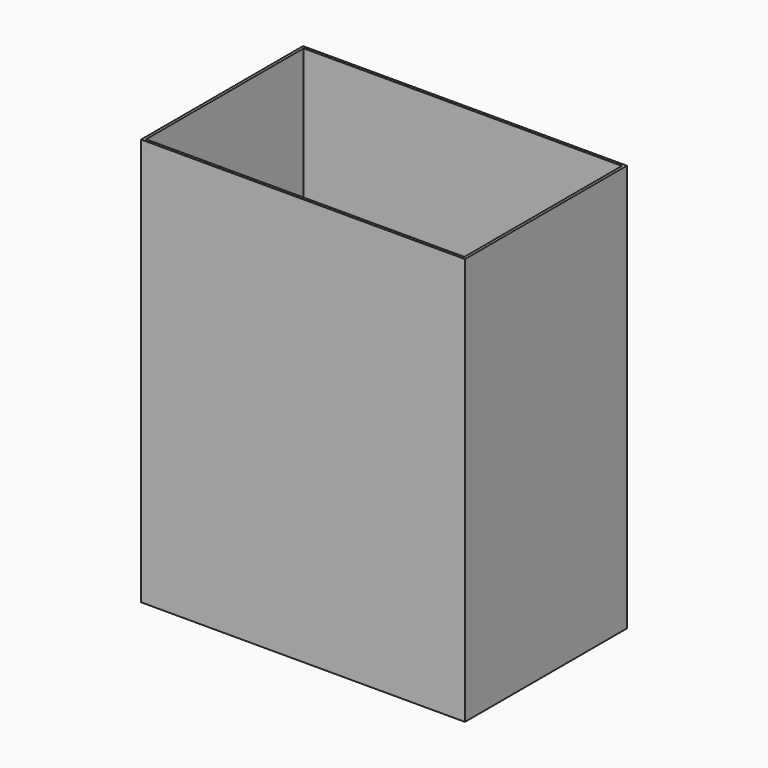
from build123d import *

# Parameters (mm, degrees)
F0_W     = 120
F0_H     = 75
F2_DEPTH = 1
F1_W     = 120
F1_H     = 75
F1_W_2   = 118
F1_H_2   = 73
F3_DEPTH = 150


with BuildPart() as f2:
    # F0 (on Top) → F2 (new body)
    with BuildSketch(Plane.XY):
        with Locations((17.188068, -9.13017)):
            Rectangle(F0_W, F0_H)
    extrude(amount=-F2_DEPTH)

    # F1 (on Top) → F3 (join)
    with BuildSketch(Plane.XY):
        with Locations((17.188068, -9.13017)):
            Rectangle(F1_W, F1_H)
        with Locations((17.188068, -9.13017)):
            Rectangle(F1_W_2, F1_H_2, mode=Mode.SUBTRACT)
    extrude(amount=F3_DEPTH)


solid = f2.part
